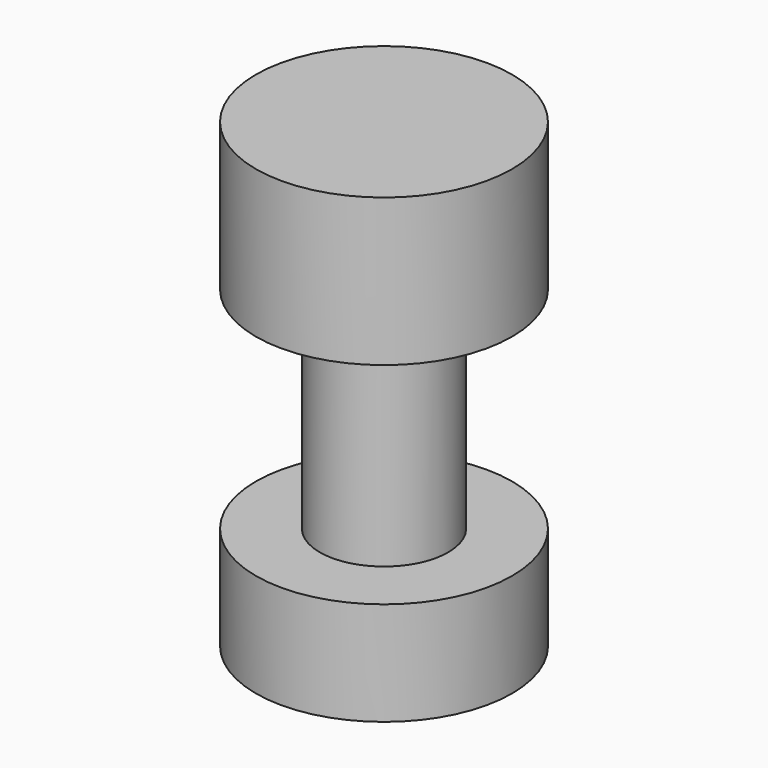
from build123d import *

# Parameters (mm, degrees)
F0_R     = 35.231232
F1_DEPTH = 127
F2_W     = 17.652087
F2_H     = 57.944892


with BuildPart() as f1:
    # F0 (on Top) → F1 (new body)
    with BuildSketch(Plane.XY):
        Circle(F0_R)
    extrude(amount=F1_DEPTH)

    # F2 (on Right) → F4 (revolve, cut)
    with BuildSketch(Plane.YZ):
        with Locations((-26.47813, 57.442375)):
            Rectangle(F2_W, F2_H)
    revolve(axis=Axis((0, 0, 50.498489), (0, 0, 1)), mode=Mode.SUBTRACT)


solid = f1.part
